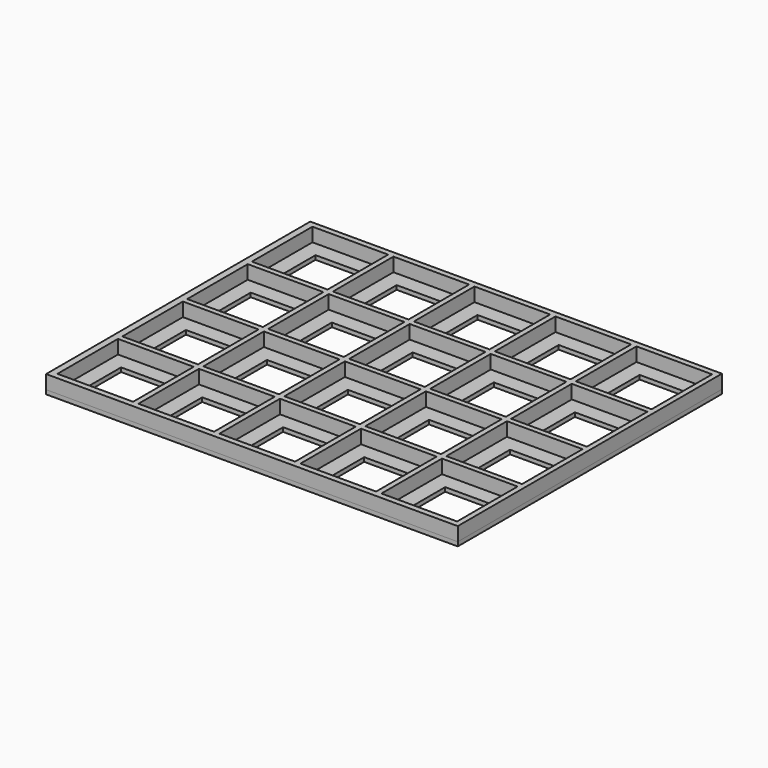
from build123d import *

# Parameters (mm, degrees)
F0_W     = 119.688211
F0_H     = 96
F0_W_2   = 22
F0_H_2   = 22
F0_W_3   = 21.999999
F1_DEPTH = 4
F0_W_4   = 13
F0_H_3   = 13
F2_DEPTH = 1.2


with BuildPart() as f1:
    # F0 (on Top) → F1 (new body)
    with BuildSketch(Plane.XY):
        with Locations((-5e-07, 0)):
            Rectangle(F0_W, F0_H)
        with Locations((-46.903828, -35.3)):
            Rectangle(F0_W_2, F0_H_2, mode=Mode.SUBTRACT)
        with Locations((-23.353828, -35.3)):
            Rectangle(F0_W_2, F0_H_2, mode=Mode.SUBTRACT)
        with Locations((-46.8744295, -11.748823)):
            Rectangle(F0_W_3, F0_H_2, mode=Mode.SUBTRACT)
        with Locations((-23.32443, -11.748823)):
            Rectangle(F0_W_2, F0_H_2, mode=Mode.SUBTRACT)
        with Locations((0.196172, -35.3)):
            Rectangle(F0_W_2, F0_H_2, mode=Mode.SUBTRACT)
        with Locations((23.746172, -35.3)):
            Rectangle(F0_W_2, F0_H_2, mode=Mode.SUBTRACT)
        with Locations((47.296172, -35.3)):
            Rectangle(F0_W_2, F0_H_2, mode=Mode.SUBTRACT)
        with Locations((0.22557, -11.748823)):
            Rectangle(F0_W_2, F0_H_2, mode=Mode.SUBTRACT)
        with Locations((23.77557, -11.748823)):
            Rectangle(F0_W_2, F0_H_2, mode=Mode.SUBTRACT)
        with Locations((47.32557, -11.748823)):
            Rectangle(F0_W_2, F0_H_2, mode=Mode.SUBTRACT)
        with Locations((-46.859731, 11.802354)):
            Rectangle(F0_W_2, F0_H_2, mode=Mode.SUBTRACT)
        with Locations((-23.309731, 11.802354)):
            Rectangle(F0_W_2, F0_H_2, mode=Mode.SUBTRACT)
        with Locations((-46.889129, 35.35353)):
            Rectangle(F0_W_2, F0_H_2, mode=Mode.SUBTRACT)
        with Locations((-23.339129, 35.35353)):
            Rectangle(F0_W_2, F0_H_2, mode=Mode.SUBTRACT)
        with Locations((0.240269, 11.802354)):
            Rectangle(F0_W_2, F0_H_2, mode=Mode.SUBTRACT)
        with Locations((23.790269, 11.802354)):
            Rectangle(F0_W_2, F0_H_2, mode=Mode.SUBTRACT)
        with Locations((47.340269, 11.802354)):
            Rectangle(F0_W_2, F0_H_2, mode=Mode.SUBTRACT)
        with Locations((0.210871, 35.35353)):
            Rectangle(F0_W_2, F0_H_2, mode=Mode.SUBTRACT)
        with Locations((23.760871, 35.35353)):
            Rectangle(F0_W_2, F0_H_2, mode=Mode.SUBTRACT)
        with Locations((47.310871, 35.35353)):
            Rectangle(F0_W_2, F0_H_2, mode=Mode.SUBTRACT)
    extrude(amount=F1_DEPTH)


with BuildPart() as f2:
    # F0 (on Top) → F2 (new body)
    with BuildSketch(Plane.XY):
        with Locations((-5e-07, 0)):
            Rectangle(F0_W, F0_H)
        with Locations((-46.903828, -35.3)):
            Rectangle(F0_W_2, F0_H_2, mode=Mode.SUBTRACT)
        with Locations((-23.353828, -35.3)):
            Rectangle(F0_W_2, F0_H_2, mode=Mode.SUBTRACT)
        with Locations((-46.8744295, -11.748823)):
            Rectangle(F0_W_3, F0_H_2, mode=Mode.SUBTRACT)
        with Locations((-23.32443, -11.748823)):
            Rectangle(F0_W_2, F0_H_2, mode=Mode.SUBTRACT)
        with Locations((0.196172, -35.3)):
            Rectangle(F0_W_2, F0_H_2, mode=Mode.SUBTRACT)
        with Locations((23.746172, -35.3)):
            Rectangle(F0_W_2, F0_H_2, mode=Mode.SUBTRACT)
        with Locations((47.296172, -35.3)):
            Rectangle(F0_W_2, F0_H_2, mode=Mode.SUBTRACT)
        with Locations((0.22557, -11.748823)):
            Rectangle(F0_W_2, F0_H_2, mode=Mode.SUBTRACT)
        with Locations((23.77557, -11.748823)):
            Rectangle(F0_W_2, F0_H_2, mode=Mode.SUBTRACT)
        with Locations((47.32557, -11.748823)):
            Rectangle(F0_W_2, F0_H_2, mode=Mode.SUBTRACT)
        with Locations((-46.859731, 11.802354)):
            Rectangle(F0_W_2, F0_H_2, mode=Mode.SUBTRACT)
        with Locations((-23.309731, 11.802354)):
            Rectangle(F0_W_2, F0_H_2, mode=Mode.SUBTRACT)
        with Locations((-46.889129, 35.35353)):
            Rectangle(F0_W_2, F0_H_2, mode=Mode.SUBTRACT)
        with Locations((-23.339129, 35.35353)):
            Rectangle(F0_W_2, F0_H_2, mode=Mode.SUBTRACT)
        with Locations((0.240269, 11.802354)):
            Rectangle(F0_W_2, F0_H_2, mode=Mode.SUBTRACT)
        with Locations((23.790269, 11.802354)):
            Rectangle(F0_W_2, F0_H_2, mode=Mode.SUBTRACT)
        with Locations((47.340269, 11.802354)):
            Rectangle(F0_W_2, F0_H_2, mode=Mode.SUBTRACT)
        with Locations((0.210871, 35.35353)):
            Rectangle(F0_W_2, F0_H_2, mode=Mode.SUBTRACT)
        with Locations((23.760871, 35.35353)):
            Rectangle(F0_W_2, F0_H_2, mode=Mode.SUBTRACT)
        with Locations((47.310871, 35.35353)):
            Rectangle(F0_W_2, F0_H_2, mode=Mode.SUBTRACT)
        with Locations((23.746172, -35.3)):
            Rectangle(F0_W_2, F0_H_2)
        with Locations((23.790269, -35.299998)):
            Rectangle(F0_W_4, F0_H_3, mode=Mode.SUBTRACT)
        with Locations((-23.32443, -11.748823)):
            Rectangle(F0_W_2, F0_H_2)
        with Locations((-23.30973, -11.748822)):
            Rectangle(F0_W_4, F0_H_3, mode=Mode.SUBTRACT)
        with Locations((-46.889129, 35.35353)):
            Rectangle(F0_W_2, F0_H_2)
        with Locations((-46.889129, 35.35353)):
            Rectangle(F0_W_4, F0_H_3, mode=Mode.SUBTRACT)
        with Locations((47.310871, 35.35353)):
            Rectangle(F0_W_2, F0_H_2)
        with Locations((47.340269, 35.35353)):
            Rectangle(F0_W_4, F0_H_3, mode=Mode.SUBTRACT)
        with Locations((0.240269, 11.802354)):
            Rectangle(F0_W_2, F0_H_2)
        with Locations((0.196172, 11.802354)):
            Rectangle(F0_W_4, F0_H_3, mode=Mode.SUBTRACT)
        with Locations((-23.353828, -35.3)):
            Rectangle(F0_W_2, F0_H_2)
        with Locations((-23.30973, -35.299998)):
            Rectangle(F0_W_4, F0_H_3, mode=Mode.SUBTRACT)
        with Locations((-46.859731, 11.802354)):
            Rectangle(F0_W_2, F0_H_2)
        with Locations((-46.889129, 11.802354)):
            Rectangle(F0_W_4, F0_H_3, mode=Mode.SUBTRACT)
        with Locations((0.22557, -11.748823)):
            Rectangle(F0_W_2, F0_H_2)
        with Locations((0.196172, -11.748822)):
            Rectangle(F0_W_4, F0_H_3, mode=Mode.SUBTRACT)
        with Locations((47.340269, 11.802354)):
            Rectangle(F0_W_2, F0_H_2)
        with Locations((47.340269, 11.802354)):
            Rectangle(F0_W_4, F0_H_3, mode=Mode.SUBTRACT)
        with Locations((0.210871, 35.35353)):
            Rectangle(F0_W_2, F0_H_2)
        with Locations((0.196172, 35.35353)):
            Rectangle(F0_W_4, F0_H_3, mode=Mode.SUBTRACT)
        with Locations((47.32557, -11.748823)):
            Rectangle(F0_W_2, F0_H_2)
        with Locations((47.340269, -11.748822)):
            Rectangle(F0_W_4, F0_H_3, mode=Mode.SUBTRACT)
        with Locations((23.760871, 35.35353)):
            Rectangle(F0_W_2, F0_H_2)
        with Locations((23.790269, 35.35353)):
            Rectangle(F0_W_4, F0_H_3, mode=Mode.SUBTRACT)
        with Locations((47.296172, -35.3)):
            Rectangle(F0_W_2, F0_H_2)
        with Locations((47.340269, -35.299998)):
            Rectangle(F0_W_4, F0_H_3, mode=Mode.SUBTRACT)
        with Locations((-46.903828, -35.3)):
            Rectangle(F0_W_2, F0_H_2)
        with Locations((-46.889129, -35.299998)):
            Rectangle(F0_W_4, F0_H_3, mode=Mode.SUBTRACT)
        with Locations((23.790269, 11.802354)):
            Rectangle(F0_W_2, F0_H_2)
        with Locations((23.790269, 11.802354)):
            Rectangle(F0_W_4, F0_H_3, mode=Mode.SUBTRACT)
        with Locations((-23.339129, 35.35353)):
            Rectangle(F0_W_2, F0_H_2)
        with Locations((-23.30973, 35.35353)):
            Rectangle(F0_W_4, F0_H_3, mode=Mode.SUBTRACT)
        with Locations((23.77557, -11.748823)):
            Rectangle(F0_W_2, F0_H_2)
        with Locations((23.790269, -11.748822)):
            Rectangle(F0_W_4, F0_H_3, mode=Mode.SUBTRACT)
        with Locations((0.196172, -35.3)):
            Rectangle(F0_W_2, F0_H_2)
        with Locations((0.196172, -35.299998)):
            Rectangle(F0_W_4, F0_H_3, mode=Mode.SUBTRACT)
        with Locations((-23.309731, 11.802354)):
            Rectangle(F0_W_2, F0_H_2)
        with Locations((-23.30973, 11.802354)):
            Rectangle(F0_W_4, F0_H_3, mode=Mode.SUBTRACT)
        with Locations((-46.8744295, -11.748823)):
            Rectangle(F0_W_3, F0_H_2)
        with Locations((-46.889129, -11.748822)):
            Rectangle(F0_W_4, F0_H_3, mode=Mode.SUBTRACT)
    extrude(amount=-F2_DEPTH)


solid = Compound([f1.part, f2.part])
